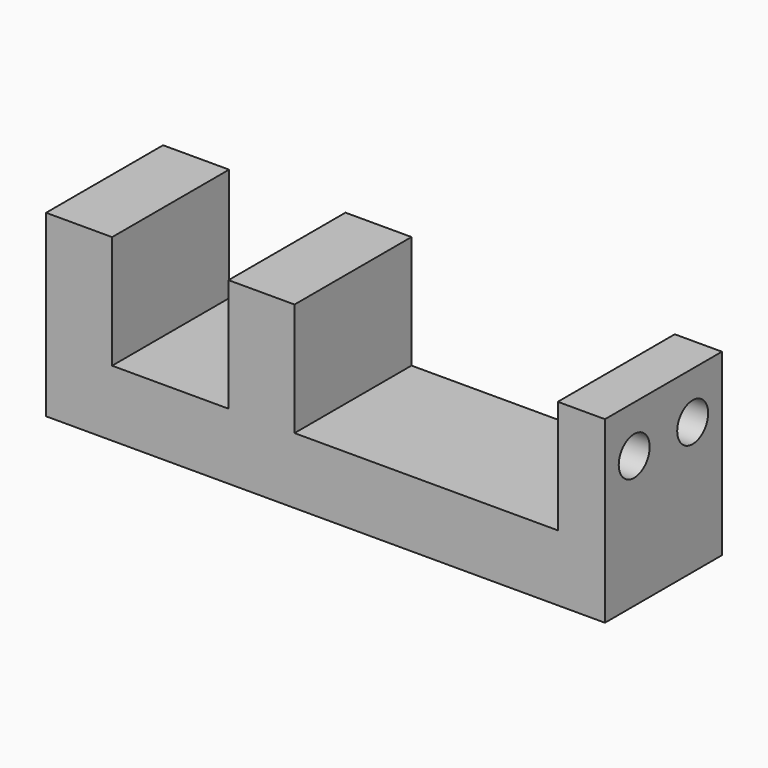
from build123d import *

# Parameters (mm, degrees)
F0_W     = 7
F0_H     = 15.5
F0_W_2   = 12.34
F0_W_3   = 27.91
F0_W_4   = 5
F1_DEPTH = 7
F2_DEPTH = 19
F4_DEPTH = 25


with BuildPart() as f1:
    # F0 (on Top) → F1 (new body)
    with BuildSketch(Plane.XY):
        with Locations((-86.9522068564, 0)):
            Rectangle(F0_W, F0_H)
        with Locations((-77.2822068564, 0)):
            Rectangle(F0_W_2, F0_H)
        with Locations((-67.6122068564, 0)):
            Rectangle(F0_W, F0_H)
        with Locations((-50.1572068564, 0)):
            Rectangle(F0_W_3, F0_H)
        with Locations((-33.7022068564, 0)):
            Rectangle(F0_W_4, F0_H)
    extrude(amount=F1_DEPTH)

    # F0 (on Top) → F2 (join)
    with BuildSketch(Plane.XY):
        with Locations((-86.9522068564, 0)):
            Rectangle(F0_W, F0_H)
        with Locations((-67.6122068564, 0)):
            Rectangle(F0_W, F0_H)
        with Locations((-33.7022068564, 0)):
            Rectangle(F0_W_4, F0_H)
    extrude(amount=F2_DEPTH)

    # F3 (on face) → F4 (cut)
    with BuildSketch(Plane.YZ.offset(-31.2022068564)):
        with BuildLine():
            Line((-5.925, 14), (-1.825, 14))
            ThreePointArc((-1.825, 14), (-3.875, 16.05), (-5.925, 14))
        make_face()
        with BuildLine():
            ThreePointArc((5.925, 14), (3.875, 16.05), (1.825, 14))
            Line((1.825, 14), (5.925, 14))
        make_face()
        with BuildLine():
            Line((5.925, 14), (1.825, 14))
            ThreePointArc((1.825, 14), (3.875, 11.95), (5.925, 14))
        make_face()
        with BuildLine():
            ThreePointArc((-5.925, 14), (-3.875, 11.95), (-1.825, 14))
            Line((-1.825, 14), (-5.925, 14))
        make_face()
    extrude(amount=-F4_DEPTH, mode=Mode.SUBTRACT)


solid = f1.part
